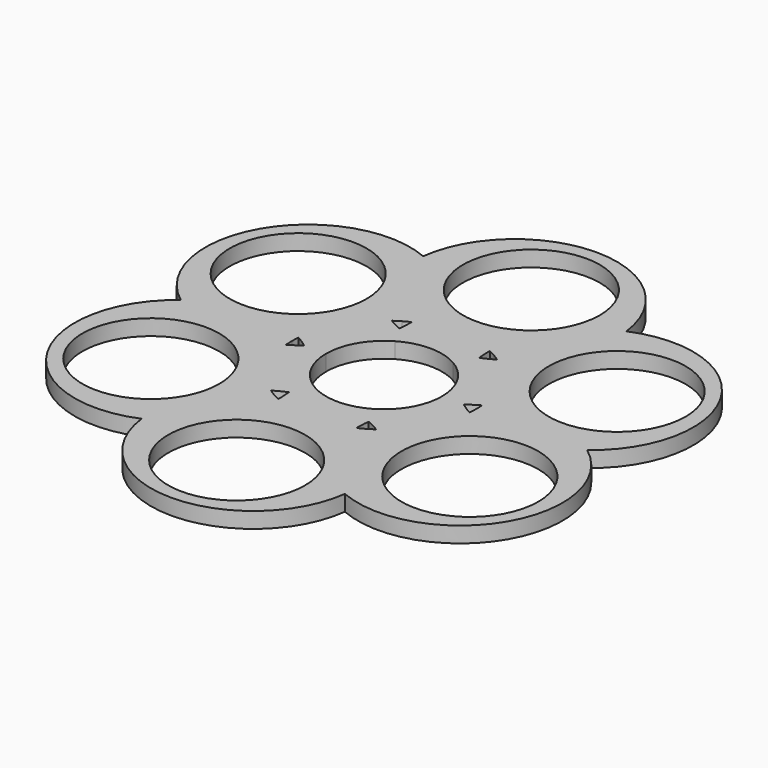
from build123d import *

# Parameters (mm, degrees)
F0_R     = 13
F1_DEPTH = 3


with BuildPart() as f1:
    # F0 (on Top) → F1 (new body)
    with BuildSketch(Plane.XY):
        with BuildLine():
            ThreePointArc((38.620041, 0), (43.741441, 25.254133), (19.31002, 33.445936))
            ThreePointArc((19.31002, 33.445936), (0, 50.508265), (-19.31002, 33.445936))
            ThreePointArc((-19.31002, 33.445936), (-43.741441, 25.254133), (-38.620041, 0))
            ThreePointArc((-38.620041, 0), (-43.741441, -25.254133), (-19.31002, -33.445936))
            ThreePointArc((-19.31002, -33.445936), (0, -50.508265), (19.31002, -33.445936))
            ThreePointArc((19.31002, -33.445936), (43.741441, -25.254133), (38.620041, 0))
        make_face()
        with Locations((-30.310889, -17.5)):
            Circle(F0_R, mode=Mode.SUBTRACT)
        with BuildLine():
            ThreePointArc((-7.580238, -13.129358), (-7.460103, -14.483219), (-7.434773, -15.842164))
            ThreePointArc((-7.434773, -15.842164), (-8.099667, -15.512749), (-8.75, -15.155445))
            ThreePointArc((-8.75, -15.155445), (-9.384601, -14.770892), (-10.00233, -14.359784))
            ThreePointArc((-10.00233, -14.359784), (-8.812784, -13.702248), (-7.580238, -13.129358))
        make_face(mode=Mode.SUBTRACT)
        with Locations((0, -35)):
            Circle(F0_R, mode=Mode.SUBTRACT)
        with BuildLine():
            ThreePointArc((7.580238, -13.129358), (8.812784, -13.702248), (10.00233, -14.359784))
            ThreePointArc((10.00233, -14.359784), (9.384601, -14.770892), (8.75, -15.155445))
            ThreePointArc((8.75, -15.155445), (8.099667, -15.512749), (7.434773, -15.842164))
            ThreePointArc((7.434773, -15.842164), (7.460103, -14.483219), (7.580238, -13.129358))
        make_face(mode=Mode.SUBTRACT)
        with BuildLine():
            ThreePointArc((15.160476, 0), (16.272887, 0.780971), (17.437103, 1.48238))
            ThreePointArc((17.437103, 1.48238), (17.484269, 0.741857), (17.5, 0))
            ThreePointArc((17.5, 0), (17.484269, -0.741857), (17.437103, -1.48238))
            ThreePointArc((17.437103, -1.48238), (16.272887, -0.780971), (15.160476, 0))
        make_face(mode=Mode.SUBTRACT)
        with Locations((30.310889, -17.5)):
            Circle(F0_R, mode=Mode.SUBTRACT)
        with Locations((-30.310889, 17.5)):
            Circle(F0_R, mode=Mode.SUBTRACT)
        with BuildLine():
            ThreePointArc((-15.160476, 0), (-16.272887, -0.780971), (-17.437103, -1.48238))
            ThreePointArc((-17.437103, -1.48238), (-17.484269, -0.741857), (-17.5, 0))
            ThreePointArc((-17.5, 0), (-17.484269, 0.741857), (-17.437103, 1.48238))
            ThreePointArc((-17.437103, 1.48238), (-16.272887, 0.780971), (-15.160476, 0))
        make_face(mode=Mode.SUBTRACT)
        with BuildLine():
            ThreePointArc((-10.00233, 14.359784), (-9.384601, 14.770892), (-8.75, 15.155445))
            ThreePointArc((-8.75, 15.155445), (-8.099667, 15.512749), (-7.434773, 15.842164))
            ThreePointArc((-7.434773, 15.842164), (-7.460103, 14.483219), (-7.580238, 13.129358))
            ThreePointArc((-7.580238, 13.129358), (-8.812784, 13.702248), (-10.00233, 14.359784))
        make_face(mode=Mode.SUBTRACT)
        with BuildLine():
            ThreePointArc((-5.5, 9.526279), (0, 11), (5.5, 9.526279))
            ThreePointArc((5.5, 9.526279), (9.526279, 5.5), (11, 0))
            ThreePointArc((11, 0), (9.526279, -5.5), (5.5, -9.526279))
            ThreePointArc((5.5, -9.526279), (0, -11), (-5.5, -9.526279))
            ThreePointArc((-5.5, -9.526279), (-9.526279, -5.5), (-11, 0))
            ThreePointArc((-11, 0), (-9.526279, 5.5), (-5.5, 9.526279))
        make_face(mode=Mode.SUBTRACT)
        with BuildLine():
            ThreePointArc((8.75, 15.155445), (9.384601, 14.770892), (10.00233, 14.359784))
            ThreePointArc((10.00233, 14.359784), (8.812784, 13.702248), (7.580238, 13.129358))
            ThreePointArc((7.580238, 13.129358), (7.460103, 14.483219), (7.434773, 15.842164))
            ThreePointArc((7.434773, 15.842164), (8.099667, 15.512749), (8.75, 15.155445))
        make_face(mode=Mode.SUBTRACT)
        with Locations((30.310889, 17.5)):
            Circle(F0_R, mode=Mode.SUBTRACT)
        with Locations((0, 35)):
            Circle(F0_R, mode=Mode.SUBTRACT)
    extrude(amount=F1_DEPTH)


solid = f1.part
